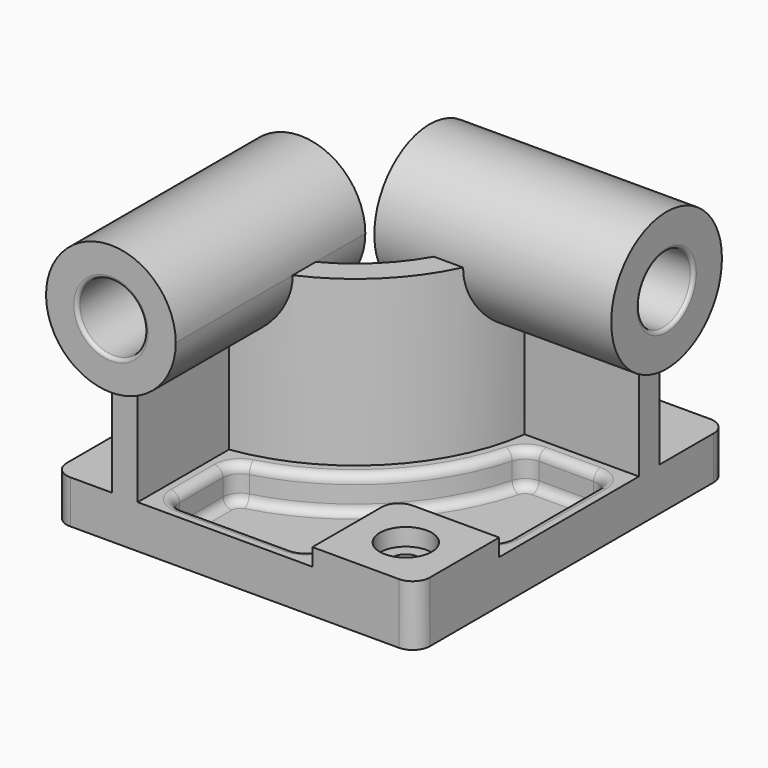
from build123d import *

# Parameters (mm, degrees)
F0_W            = 210
F0_H            = 225
F1_DEPTH        = 25
F3_DEPTH        = 95
F5_DEPTH        = 10
F5_DEPTH_BACK   = 127
F7_DEPTH        = 10
F7_DEPTH_BACK   = 127
F8_W            = 60
F8_H            = 60
F9_DEPTH        = 10
F10_R           = 10
F12_DEPTH       = 20
F14_D           = 15
F14_CBORE_D     = 30
F14_CBORE_DEPTH = 10
F15_R           = 10
F16_R           = 19.5
F18_DEPTH       = 235.001
F17_R           = 19.5
F19_DEPTH       = 220.001
F20_R           = 2
F21_R           = 10
F22_R           = 5.08


with BuildPart() as f1:
    # F0 (on Top) → F1 (new body)
    with BuildSketch(Plane.XY):
        Rectangle(F0_W, F0_H)
    extrude(amount=F1_DEPTH)

    # F2 (on face) → F3 (join)
    with BuildSketch(Plane.XY.offset(25)):
        with BuildLine():
            Line((-71, -32.5), (-71, -112.5))
            Line((-71, -112.5), (-56, -112.5))
            Line((-56, -112.5), (-56, -46.483520641))
            ThreePointArc((-56, -46.483520641), (7.4927784163, -14.9927784163), (38.983520641, 48.5))
            Line((38.983520641, 48.5), (105, 48.5))
            Line((105, 48.5), (105, 63.5))
            Line((105, 63.5), (25, 63.5))
            ThreePointArc((25, 63.5), (-3.1138233015, -4.3861766985), (-71, -32.5))
        make_face()
    extrude(amount=F3_DEPTH)

    # F4 (on face) → F5 (join, two sides)
    with BuildSketch(Plane.XZ.offset(112.5)) as f5_sk:
        with BuildLine():
            Line((-71, 120), (-71, 83.2576538583))
            ThreePointArc((-71, 83.2576538583), (-63.5, 82.5), (-56, 83.2576538583))
            Line((-56, 83.2576538583), (-56, 120))
            Line((-56, 120), (-71, 120))
        make_face()
        with BuildLine():
            ThreePointArc((-56, 83.2576538583), (-34.4526249034, 96.2829175487), (-26, 120))
            ThreePointArc((-26, 120), (-87.2170824513, 149.0473750966), (-71, 83.2576538583))
            Line((-71, 83.2576538583), (-71, 120))
            Line((-71, 120), (-56, 120))
            Line((-56, 120), (-56, 83.2576538583))
        make_face()
    extrude(amount=F5_DEPTH)
    extrude(f5_sk.sketch, amount=-F5_DEPTH_BACK)

    # F6 (on face) → F7 (join, two sides)
    with BuildSketch(Plane.YZ.offset(105)) as f7_sk:
        with BuildLine():
            ThreePointArc((63.5, 80.7094158862), (86.8220700148, 94.504902432), (96, 120))
            ThreePointArc((96, 120), (30.504902432, 150.8220700148), (48.5, 80.7094158862))
            Line((48.5, 80.7094158862), (48.5, 120))
            Line((48.5, 120), (63.5, 120))
            Line((63.5, 120), (63.5, 80.7094158862))
        make_face()
        with BuildLine():
            Line((48.5, 120), (48.5, 80.7094158862))
            ThreePointArc((48.5, 80.7094158862), (56, 80), (63.5, 80.7094158862))
            Line((63.5, 80.7094158862), (63.5, 120))
            Line((63.5, 120), (48.5, 120))
        make_face()
    extrude(amount=F7_DEPTH)
    extrude(f7_sk.sketch, amount=-F7_DEPTH_BACK)

    # F8 (on face) → F9 (join)
    with BuildSketch(Plane.XY.offset(25)):
        with Locations((75, -82.5)):
            Rectangle(F8_W, F8_H)
    extrude(amount=F9_DEPTH)

    # F10
    f10_edges = [f1.edges().sort_by_distance(p)[0] for p in [
        (45, -52.5, 30),
    ]]
    fillet(f10_edges, radius=F10_R)

    # F11 (on face) → F12 (cut)
    with BuildSketch(Plane.XY.offset(25)):
        with BuildLine():
            ThreePointArc((46.5779672166, 39.5), (13.856739447, -21.356739447), (-47, -54.0779672166))
            Line((-47, -54.0779672166), (-47, -103.5))
            Line((-47, -103.5), (36, -103.5))
            Line((36, -103.5), (36, -62.5))
            ThreePointArc((36, -62.5), (41.5649711575, -49.0649711575), (55, -43.5))
            Line((55, -43.5), (96, -43.5))
            Line((96, -43.5), (96, 39.5))
            Line((96, 39.5), (46.5779672166, 39.5))
        make_face()
    extrude(amount=-F12_DEPTH, mode=Mode.SUBTRACT)

    # F14 (through all)
    with Locations(Plane.XY.offset(35)):
        with Locations((75, -82.5)):
            CounterBoreHole(F14_D / 2, F14_CBORE_D / 2, F14_CBORE_DEPTH)

    # F15
    f15_edges = [f1.edges().sort_by_distance(p)[0] for p in [
        (-47, -54.077967, 15),
        (46.577967, 39.5, 15),
        (96, 39.5, 15),
        (96, -43.5, 15),
        (36, -103.5, 15),
        (-47, -103.5, 15),
    ]]
    fillet(f15_edges, radius=F15_R)

    # F16 (on face) → F18 (cut, through all)
    with BuildSketch(Plane.XZ.offset(122.5)):
        with Locations((-63.5, 120)):
            Circle(F16_R)
    extrude(amount=-F18_DEPTH, mode=Mode.SUBTRACT)

    # F17 (on face) → F19 (cut, through all)
    with BuildSketch(Plane.YZ.offset(115)):
        with Locations((56, 120)):
            Circle(F17_R)
    extrude(amount=-F19_DEPTH, mode=Mode.SUBTRACT)

    # F20
    f20_edges = [f1.edges().sort_by_distance(p)[0] for p in [
        (-83, -122.5, 120),
        (115, 36.5, 120),
        (-22, 36.5, 120),
        (-83, 14.5, 120),
    ]]
    fillet(f20_edges, radius=F20_R)

    # F21
    f21_edges = [f1.edges().sort_by_distance(p)[0] for p in [
        (105, -112.5, 17.5),
        (-105, -112.5, 12.5),
        (105, 112.5, 12.5),
        (-105, 112.5, 12.5),
    ]]
    fillet(f21_edges, radius=F21_R)

    # F22
    f22_edges = [f1.edges().sort_by_distance(p)[0] for p in [
        (-47, -77.739123, 25),
        (-44.941858, -55.901496, 25),
        (-47, -77.739123, 5),
        (-44.941858, -55.901496, 5),
        (13.856739, -21.356739, 5),
    ]]
    fillet(f22_edges, radius=F22_R)


solid = f1.part
